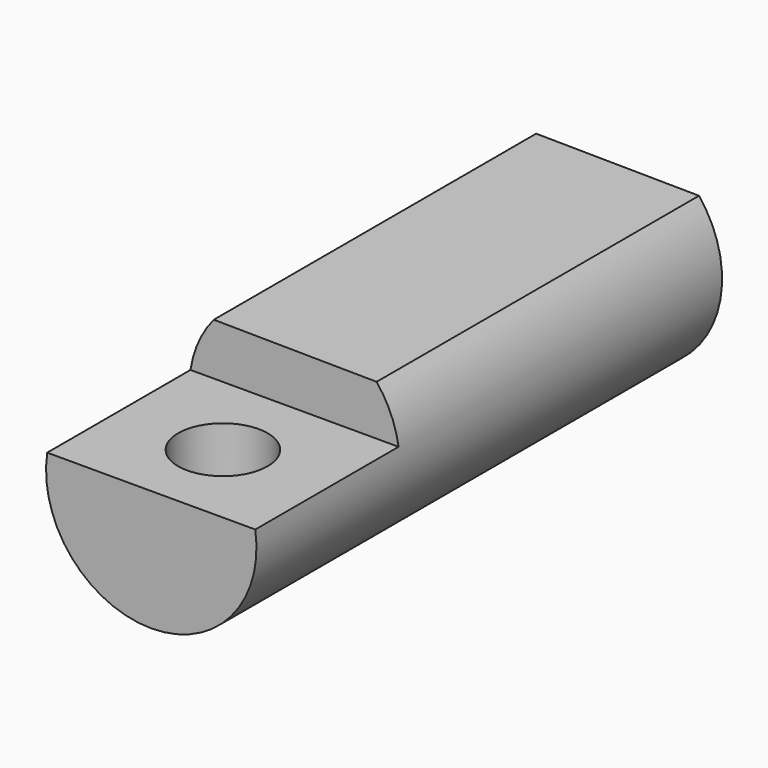
from build123d import *

# Parameters (mm, degrees)
F0_R     = 11.75
F1_DEPTH = 65
F3_DEPTH = 20
F4_R     = 5
F5_DEPTH = 13.501
F7_DEPTH = 45.001


with BuildPart() as f1:
    # F0 (on Front) → F1 (new body)
    with BuildSketch(Plane.XZ):
        Circle(F0_R)
    extrude(amount=F1_DEPTH)

    # F2 (on face) → F3 (cut)
    with BuildSketch(Plane.XZ.offset(65)):
        with BuildLine():
            ThreePointArc((11.61895, 1.75), (0, 11.75), (-11.61895, 1.75))
            Line((-11.61895, 1.75), (11.61895, 1.75))
        make_face()
    extrude(amount=-F3_DEPTH, mode=Mode.SUBTRACT)

    # F4 (on face) → F5 (cut, through all)
    with BuildSketch(Plane.XY.offset(1.75)):
        with Locations((0, -55)):
            Circle(F4_R)
    extrude(amount=-F5_DEPTH, mode=Mode.SUBTRACT)

    # F6 (on face) → F7 (cut, through all)
    with BuildSketch(Plane.XZ.offset(45)):
        with BuildLine():
            Line((-9.016035, 7.534827), (9.171855, 7.344357))
            ThreePointArc((9.171855, 7.344357), (0.123043, 11.749356), (-9.016035, 7.534827))
        make_face()
    extrude(amount=-F7_DEPTH, mode=Mode.SUBTRACT)


solid = f1.part
